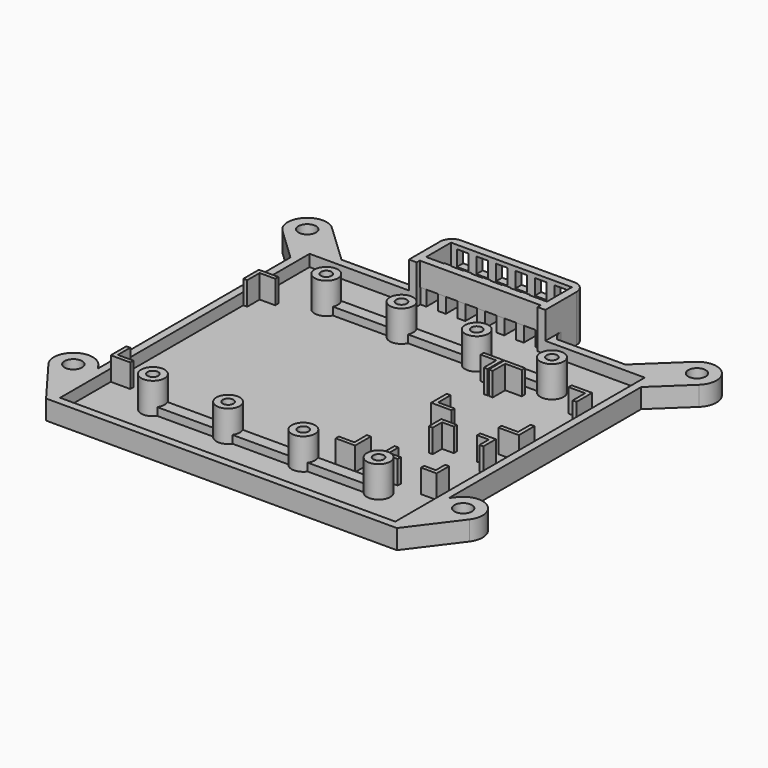
from build123d import *

# Parameters (mm, degrees)
PAD042_DEPTH    = 5
PAD043_DEPTH    = 2
SKETCH114_R     = 3
SKETCH114_R_2   = 1.375
PAD045_DEPTH    = 10
SKETCH215_W     = 16
SKETCH215_H     = 3
PAD095_DEPTH    = 4
SKETCH216_R     = 2.25
POCKET088_DEPTH = 10
SKETCH255_R     = 1.5
POCKET103_DEPTH = 5
PAD_DEPTH       = 12
SKETCH257_W     = 10
SKETCH257_H     = 2
PAD096_DEPTH    = 6
SKETCH258_W     = 2
SKETCH258_H     = 2
PAD097_DEPTH    = 12
SKETCH260_W     = 34
SKETCH260_H     = 2
PAD098_DEPTH    = 6
FILLET_R        = 3
SKETCH261_W     = 3
SKETCH261_H     = 4
POCKET_DEPTH    = 5
PAD099_DEPTH    = 8
PAD100_DEPTH    = 8
PAD101_DEPTH    = 8


with BuildPart() as part:
    # Sketch111 → Pad042 (new body)
    with BuildSketch(Plane.XY):
        with BuildLine():
            Line((45, 36.366667), (45, -25.333333))
            Line((46, -24), (45, -25.333333))
            ThreePointArc((54, -30), (53, -23), (46, -24))
            Line((45, -42), (54, -30))
            Line((45, -42), (-45, -42))
            Line((-54, -30), (-45, -42))
            ThreePointArc((-46, -24), (-53, -23), (-54, -30))
            Line((-46, -24), (-45, -25.333333))
            Line((-45, -25.333333), (-45, 36.366667))
            Line((-45, 36.366667), (-53.440759, 44.372167))
            ThreePointArc((-46.559241, 51.627833), (-53.627833, 51.440759), (-53.440759, 44.372167))
            Line((-36.407942, 42), (-46.559241, 51.627833))
            Line((-36.407942, 42), (-18.907942, 42))
            ThreePointArc((-18.907942, 42), (-17.878701, 43.347346), (-17.5, 45))
            Line((-17.5, 53), (-17.5, 45))
            Line((17.5, 53), (-17.5, 53))
            Line((17.5, 53), (17.5, 45))
            ThreePointArc((17.5, 45), (17.878701, 43.347346), (18.907942, 42))
            Line((36.407942, 42), (18.907942, 42))
            Line((46.559241, 51.627833), (36.407942, 42))
            ThreePointArc((53.440759, 44.372167), (53.627833, 51.440759), (46.559241, 51.627833))
            Line((45, 36.366667), (53.440759, 44.372167))
        make_face()
        Polygon((-43, 40), (-43, -40), (43, -40), (43, 40), (15.5, 40), (15.5, 51), (-15.5, 51), (-15.5, 40), align=None, mode=Mode.SUBTRACT)
    extrude(amount=PAD042_DEPTH)

    # Sketch112 → Pad043 (join)
    with BuildSketch(Plane.XY):
        Polygon((43, 41), (43, -41), (-43, -41), (-43, 41), (-16, 41), (-16, 53), (16, 53), (16, 41), align=None)
    extrude(amount=PAD043_DEPTH)

    # Sketch114 → Pad045 (join)
    with BuildSketch(Plane.XY):
        with Locations((-28.95, 27.805)):
            Circle(SKETCH114_R)
        with Locations((-28.95, 27.805)):
            Circle(SKETCH114_R_2, mode=Mode.SUBTRACT)
        with Locations((-9.65, 27.805)):
            Circle(SKETCH114_R)
        with Locations((-9.65, 27.805)):
            Circle(SKETCH114_R_2, mode=Mode.SUBTRACT)
        with Locations((9.65, 27.805)):
            Circle(SKETCH114_R)
        with Locations((9.65, 27.805)):
            Circle(SKETCH114_R_2, mode=Mode.SUBTRACT)
        with Locations((28.95, 27.805)):
            Circle(SKETCH114_R)
        with Locations((28.95, 27.805)):
            Circle(SKETCH114_R_2, mode=Mode.SUBTRACT)
        with Locations((28.95, -27.805)):
            Circle(SKETCH114_R)
        with Locations((28.95, -27.805)):
            Circle(SKETCH114_R_2, mode=Mode.SUBTRACT)
        with Locations((9.65, -27.805)):
            Circle(SKETCH114_R)
        with Locations((9.65, -27.805)):
            Circle(SKETCH114_R_2, mode=Mode.SUBTRACT)
        with Locations((-9.65, -27.805)):
            Circle(SKETCH114_R)
        with Locations((-9.65, -27.805)):
            Circle(SKETCH114_R_2, mode=Mode.SUBTRACT)
        with Locations((-28.95, -27.805)):
            Circle(SKETCH114_R)
        with Locations((-28.95, -27.805)):
            Circle(SKETCH114_R_2, mode=Mode.SUBTRACT)
    extrude(amount=PAD045_DEPTH)

    # Sketch215 → Pad095 (join)
    with BuildSketch(Plane.XY):
        with Locations((-20, 28)):
            Rectangle(SKETCH215_W, SKETCH215_H)
        with Locations((20, 28)):
            Rectangle(SKETCH215_W, SKETCH215_H)
        with Locations((-20, -28)):
            Rectangle(SKETCH215_W, SKETCH215_H)
        with Locations((20, -28)):
            Rectangle(SKETCH215_W, SKETCH215_H)
        with Locations((0, 28)):
            Rectangle(SKETCH215_W, SKETCH215_H)
        with Locations((0, -28)):
            Rectangle(SKETCH215_W, SKETCH215_H)
    extrude(amount=PAD095_DEPTH)

    # Sketch216 → Pocket088 (cut)
    with BuildSketch(Plane.XY):
        with Locations((-50, 48)):
            Circle(SKETCH216_R)
        with Locations((50, 48)):
            Circle(SKETCH216_R)
        with Locations((50, -27)):
            Circle(SKETCH216_R)
        with Locations((-50, -27)):
            Circle(SKETCH216_R)
    extrude(amount=POCKET088_DEPTH, mode=Mode.SUBTRACT)

    # Sketch255 → Pocket103 (cut, symmetric)
    with BuildSketch(Plane.XY):
        with Locations((-9.65, 27.805)):
            Circle(SKETCH255_R)
        with Locations((9.65, 27.805)):
            Circle(SKETCH255_R)
        with Locations((-9.65, -27.805)):
            Circle(SKETCH255_R)
        with Locations((9.65, -27.805)):
            Circle(SKETCH255_R)
        with Locations((-28.95, 27.805)):
            Circle(SKETCH255_R)
        with Locations((28.95, 27.805)):
            Circle(SKETCH255_R)
        with Locations((28.95, -27.805)):
            Circle(SKETCH255_R)
        with Locations((-28.95, -27.805)):
            Circle(SKETCH255_R)
    extrude(amount=POCKET103_DEPTH, both=True, mode=Mode.SUBTRACT)

    # Sketch → Pad (join)
    with BuildSketch(Plane.XY):
        Polygon((-17.5, 53), (-17.5, 40), (-15.5, 40), (-15.5, 51), (15.5, 51), (15.5, 40), (17.5, 40), (17.5, 53), (15.5, 53), (-15.5, 53), align=None)
    extrude(amount=PAD_DEPTH)

    # Sketch257 → Pad096 (join)
    with BuildSketch(Plane(origin=(0, 0, 0), x_dir=(0, -1, 0), z_dir=(0, 0, 1))):
        with Locations((-46.2, 15)):
            Rectangle(SKETCH257_W, SKETCH257_H)
        with Locations((-46.2, -15)):
            Rectangle(SKETCH257_W, SKETCH257_H)
        with Locations((-46.2, 10)):
            Rectangle(SKETCH257_W, SKETCH257_H)
        with Locations((-46.2, 5)):
            Rectangle(SKETCH257_W, SKETCH257_H)
        with Locations((-46.2, 0)):
            Rectangle(SKETCH257_W, SKETCH257_H)
        with Locations((-46.2, -5)):
            Rectangle(SKETCH257_W, SKETCH257_H)
        with Locations((-46.2, -10)):
            Rectangle(SKETCH257_W, SKETCH257_H)
    extrude(amount=PAD096_DEPTH)

    # Sketch258 → Pad097 (join)
    with BuildSketch(Plane(origin=(0, 0, 0), x_dir=(0, -1, 0), z_dir=(0, 0, 1))):
        with Locations((-42.2, 10)):
            Rectangle(SKETCH258_W, SKETCH258_H)
        with Locations((-42.2, 5)):
            Rectangle(SKETCH258_W, SKETCH258_H)
        with Locations((-42.2, 0)):
            Rectangle(SKETCH258_W, SKETCH258_H)
        with Locations((-42.2, -5)):
            Rectangle(SKETCH258_W, SKETCH258_H)
        with Locations((-42.2, -10)):
            Rectangle(SKETCH258_W, SKETCH258_H)
    extrude(amount=PAD097_DEPTH)

    # Sketch260 (on Face114 of Pad097) → Pad098 (join)
    with BuildSketch(Plane.XY.offset(12)):
        with Locations((0, 42)):
            Rectangle(SKETCH260_W, SKETCH260_H)
    extrude(amount=-PAD098_DEPTH)

    # Fillet
    fillet_edges = [part.edges().sort_by_distance(p)[0] for p in [
        (-17.5, 53, 6),
        (17.5, 53, 6),
    ]]
    fillet(fillet_edges, radius=FILLET_R)

    # Sketch261 (on Face5 of Fillet) → Pocket (cut)
    with BuildSketch(Plane(origin=(0, 53, 0), x_dir=(-1, 0, 0), z_dir=(0, 1, 0))):
        with Locations((-12.5, 9)):
            Rectangle(SKETCH261_W, SKETCH261_H)
        with Locations((-7.5, 9)):
            Rectangle(SKETCH261_W, SKETCH261_H)
        with Locations((-2.5, 9)):
            Rectangle(SKETCH261_W, SKETCH261_H)
        with Locations((2.5, 9)):
            Rectangle(SKETCH261_W, SKETCH261_H)
        with Locations((7.5, 9)):
            Rectangle(SKETCH261_W, SKETCH261_H)
        with Locations((12.5, 9)):
            Rectangle(SKETCH261_W, SKETCH261_H)
    extrude(amount=-POCKET_DEPTH, mode=Mode.SUBTRACT)

    # Sketch262 → Pad099 (join)
    with BuildSketch(Plane.XY):
        Polygon((-42, -22.75), (-38, -22.75), (-38, -23.75), (-43, -23.75), (-43, -18.75), (-42, -18.75), align=None)
        Polygon((-42, 22.75), (-38, 22.75), (-38, 23.75), (-43, 23.75), (-43, 18.75), (-42, 18.75), align=None)
        Polygon((18.7, -22.75), (14.7, -22.75), (14.7, -23.75), (19.7, -23.75), (19.7, -18.75), (18.7, -18.75), align=None)
        Polygon((18.7, 22.75), (14.7, 22.75), (14.7, 23.75), (19.7, 23.75), (19.7, 18.75), (18.7, 18.75), align=None)
    extrude(amount=PAD099_DEPTH)

    # Sketch263 → Pad100 (join)
    with BuildSketch(Plane.XY):
        Polygon((21, 18.75), (20, 18.75), (20, 23.75), (25.25, 23.75), (25.25, 22.75), (21, 22.75), align=None)
        Polygon((41.5, 22.75), (41.5, 18.75), (42.5, 18.75), (42.5, 23.75), (37.25, 23.75), (37.25, 22.75), align=None)
        Polygon((21, 1.25), (21, 5.25), (20, 5.25), (20, 0.25), (25.25, 0.25), (25.25, 1.25), align=None)
        Polygon((41.5, 1.25), (41.5, 5.25), (42.5, 5.25), (42.5, 0.25), (37.25, 0.25), (37.25, 1.25), align=None)
    extrude(amount=PAD100_DEPTH)

    # Sketch264 → Pad101 (join)
    with BuildSketch(Plane.XY):
        Polygon((27, -5), (30, -5), (30, -4), (26, -4), (26, -8), (27, -8), align=None)
        Polygon((39, -5), (36, -5), (36, -4), (40, -4), (40, -8), (39, -8), align=None)
        Polygon((27, -22), (27, -19), (26, -19), (26, -23), (30, -23), (30, -22), align=None)
        Polygon((39, -22), (39, -19), (40, -19), (40, -23), (36, -23), (36, -22), align=None)
    extrude(amount=PAD101_DEPTH)


with BuildPart() as part_1:
    # Body013 placement: moved
    add(part.part.moved(Location((-108, 0, 0))))


solid = part_1.part
